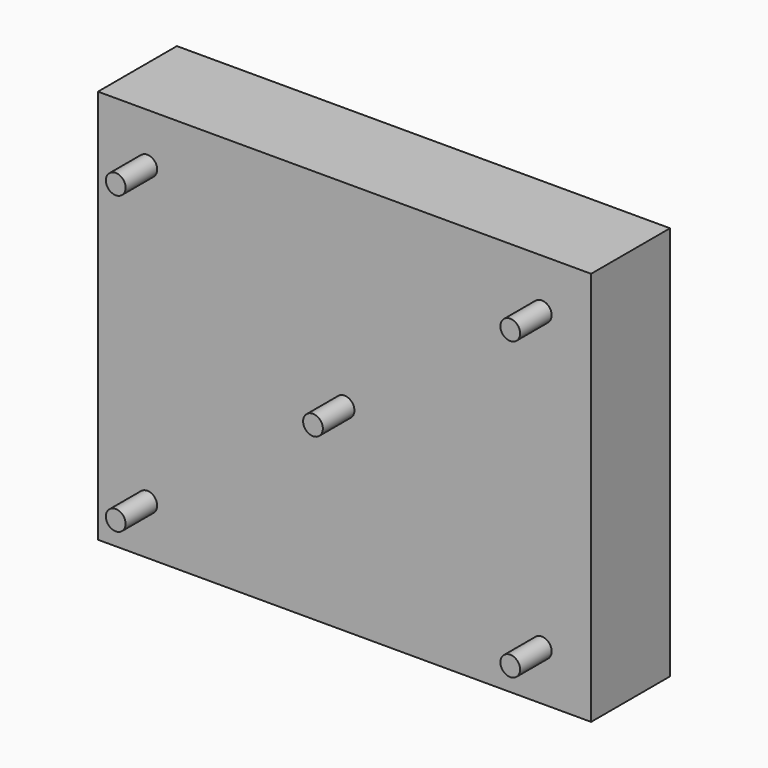
from build123d import *

# Parameters (mm, degrees)
F0_W          = 10
F0_H          = 40
F1_DEPTH      = 25
F1_DEPTH_BACK = 25
F2_R          = 1
F3_DEPTH      = 4


with BuildPart() as f1:
    # F0 (on Right) → F1 (new body, two sides)
    with BuildSketch(Plane.YZ) as f1_sk:
        Rectangle(F0_W, F0_H)
    extrude(amount=F1_DEPTH)
    extrude(f1_sk.sketch, amount=-F1_DEPTH_BACK)

    # F2 (on face) → F3 (join)
    with BuildSketch(Plane.XZ.offset(5)):
        Circle(F2_R)
        with Locations((-20, 15)):
            Circle(F2_R)
        with Locations((-20, -15)):
            Circle(F2_R)
        with Locations((20, -15)):
            Circle(F2_R)
        with Locations((20, 15)):
            Circle(F2_R)
    extrude(amount=F3_DEPTH)


solid = f1.part
